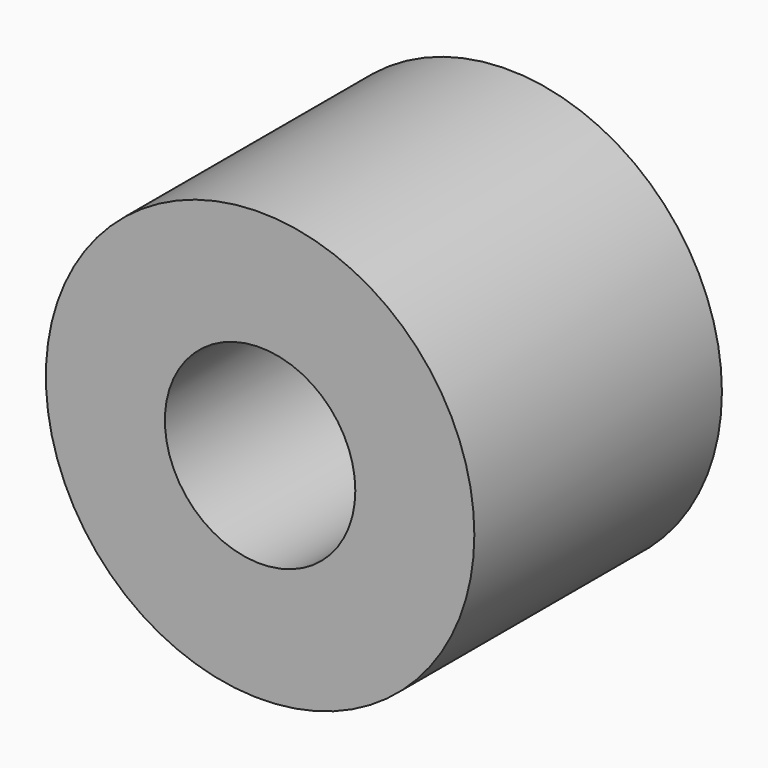
from build123d import *

# Parameters (mm, degrees)
CYLINDER386_R          = 0.4
CYLINDER386_DEPTH      = 1.3
CYLINDER363_R          = 0.9
CYLINDER363_DEPTH      = 1.3
CUT186_PLACEMENT_ANGLE = 90


with BuildPart() as cylinder386:
    # Cylinder386 → Cylinder386 (new body)
    with BuildSketch(Plane.XY):
        Circle(CYLINDER386_R)
    extrude(amount=CYLINDER386_DEPTH)


with BuildPart() as contact008:
    # Cylinder363 → Cylinder363 (new body)
    with BuildSketch(Plane.XY):
        Circle(CYLINDER363_R)
    extrude(amount=CYLINDER363_DEPTH)

    # Cut186: cut Cylinder386
    add(cylinder386.part, mode=Mode.SUBTRACT)


with BuildPart() as contact008_1:
    # Cut186 placement: moved
    add(contact008.part.moved(Location((-12.08, 1.3, -17))).rotate(Axis((-12.08, 1.3, -17), (1, 0, 0)), CUT186_PLACEMENT_ANGLE))


solid = contact008_1.part
